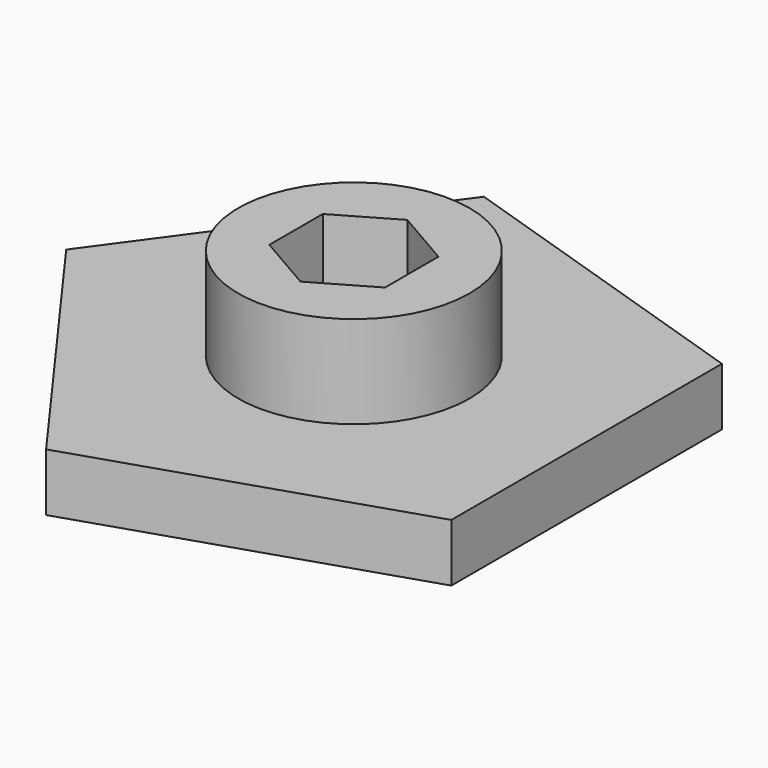
from build123d import *

# Parameters (mm, degrees)
F1_DEPTH = 6.35
F2_R     = 12.7
F3_DEPTH = 10.16
F4_R     = 3.81
F5_DEPTH = 25.4


with BuildPart() as f1:
    # F0 (on Top) → F1 (new body)
    with BuildSketch(Plane.XY):
        Polygon((25.558257, -18.569161), (25.558257, 18.569161), (-9.762385, 30.045533), (-31.591743, 0), (-9.762385, -30.045533), align=None)
    extrude(amount=F1_DEPTH)

    # F2 (on face) → F3 (join)
    with BuildSketch(Plane.XY.offset(6.35)):
        Circle(F2_R)
        Polygon((0, 7.332348), (6.35, 3.666174), (6.35, -3.666174), (0, -7.332348), (-6.35, -3.666174), (-6.35, 3.666174), align=None, mode=Mode.SUBTRACT)
    extrude(amount=F3_DEPTH)

    # F4 (on face) → F5 (cut)
    with BuildSketch(Plane(origin=(0, 0, 0), x_dir=(1, 0, 0), z_dir=(0, 0, -1))):
        Circle(F4_R)
    extrude(amount=-F5_DEPTH, mode=Mode.SUBTRACT)


solid = f1.part
